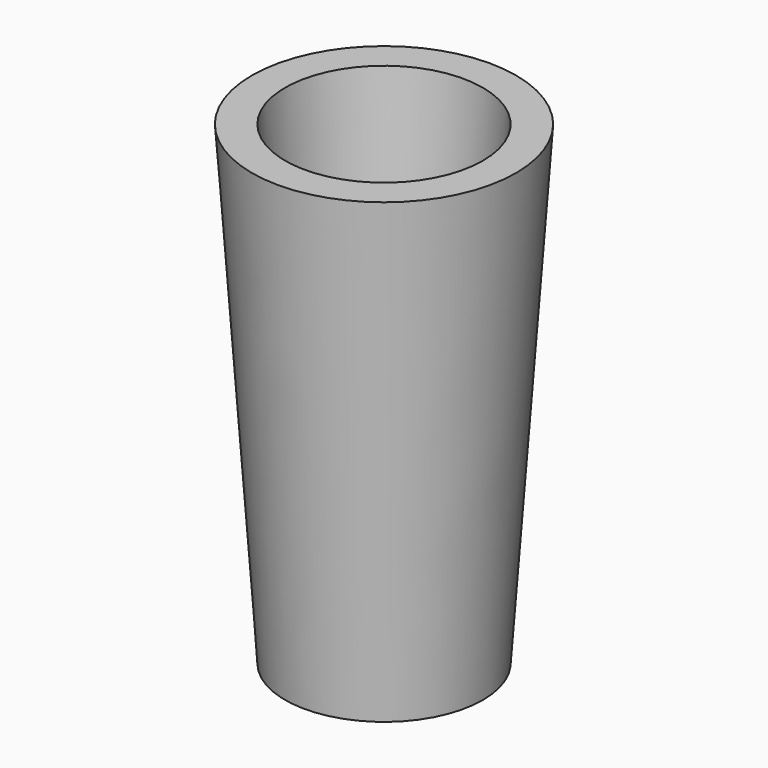
from build123d import *

# Parameters (mm, degrees)
F0_R     = 25
F1_DEPTH = 120
F1_TAPER = -4
F2_R     = 25
F3_DEPTH = 120
F3_TAPER = 4


with BuildPart() as f1:
    # F0 (on Top) → F1 (new body)
    with BuildSketch(Plane.XY):
        with Locations((-8.9937606826, 11.1873708665)):
            Circle(F0_R)
    extrude(amount=F1_DEPTH, taper=F1_TAPER)

    # F2 (on face) → F3 (cut, through all)
    with BuildSketch(Plane.XY.offset(120)):
        with Locations((-8.9937606826, 11.1873708665)):
            Circle(F2_R)
    extrude(amount=-F3_DEPTH, taper=F3_TAPER, mode=Mode.SUBTRACT)


solid = f1.part
